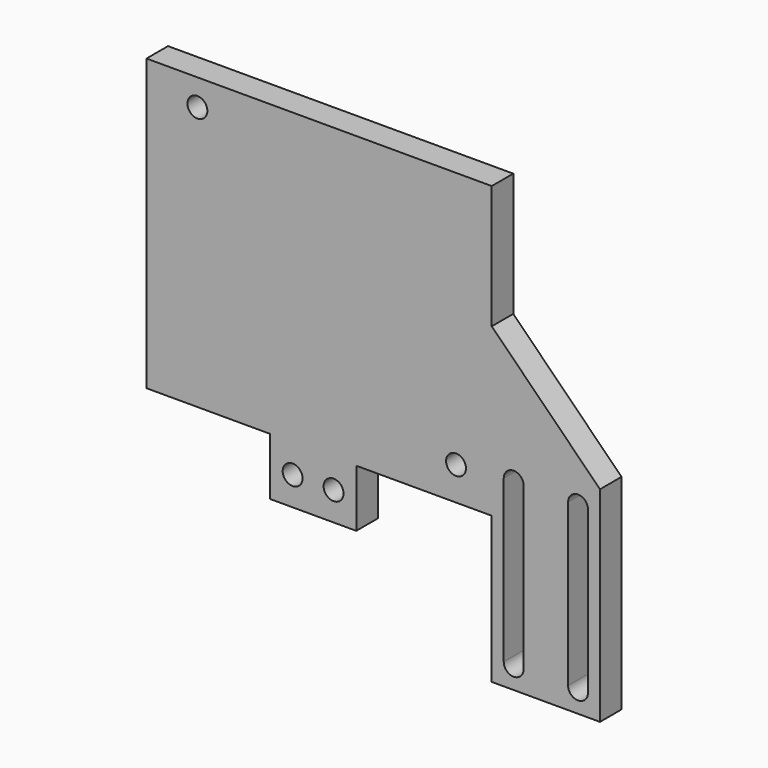
from build123d import *

# Parameters (mm, degrees)
F0_R     = 1.7
F1_DEPTH = 4.6


with BuildPart() as f1:
    # F0 (on Front) → F1 (new body)
    with BuildSketch(Plane.XZ):
        Polygon((0, 49.6), (-59, 49.6), (-59, 0), (-37.9, 0), (-37.9, -9.8), (-23.15, -9.8), (-23.15, 0), (0, 0), (0, -25), (18.5, -25), (18.5, 10), (0, 28.5), align=None)
        with Locations((-34.025, -4.9)):
            Circle(F0_R, mode=Mode.SUBTRACT)
        with Locations((-27.025, -4.9)):
            Circle(F0_R, mode=Mode.SUBTRACT)
        with BuildLine():
            Line((2.05, -21.3), (2.05, 6.3))
            ThreePointArc((2.05, 6.3), (3.75, 8), (5.45, 6.3))
            Line((5.45, 6.3), (5.45, -21.3))
            ThreePointArc((5.45, -21.3), (3.75, -23), (2.05, -21.3))
        make_face(mode=Mode.SUBTRACT)
        with BuildLine():
            Line((16.45, 6.3), (16.45, -21.3))
            ThreePointArc((16.45, -21.3), (14.75, -23), (13.05, -21.3))
            Line((13.05, -21.3), (13.05, 6.3))
            ThreePointArc((13.05, 6.3), (14.75, 8), (16.45, 6.3))
        make_face(mode=Mode.SUBTRACT)
        with Locations((-6.1, 5.7)):
            Circle(F0_R, mode=Mode.SUBTRACT)
        with Locations((-50.3, 45.1)):
            Circle(F0_R, mode=Mode.SUBTRACT)
    extrude(amount=F1_DEPTH)


solid = f1.part
